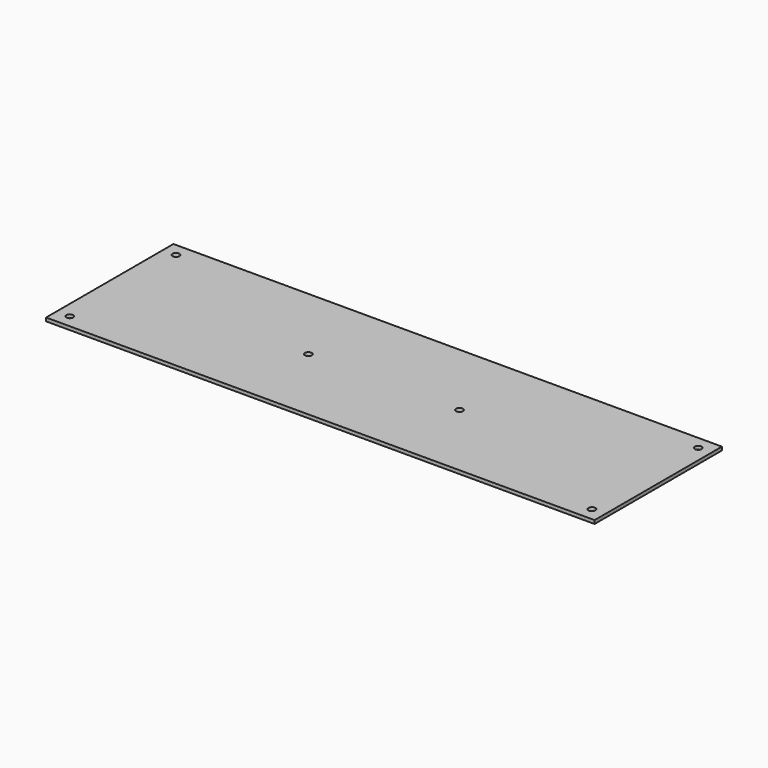
from build123d import *

# Parameters (mm, degrees)
F0_W     = 479
F0_H     = 139
F0_R     = 3
F1_DEPTH = 3


with BuildPart() as f1:
    # F0 (on Top) → F1 (new body)
    with BuildSketch(Plane.XY):
        Rectangle(F0_W, F0_H)
        with Locations((-228, -58)):
            Circle(F0_R, mode=Mode.SUBTRACT)
        with Locations((228, -58)):
            Circle(F0_R, mode=Mode.SUBTRACT)
        with Locations((-66, 0)):
            Circle(F0_R, mode=Mode.SUBTRACT)
        with Locations((-228, 58)):
            Circle(F0_R, mode=Mode.SUBTRACT)
        with Locations((66, 0)):
            Circle(F0_R, mode=Mode.SUBTRACT)
        with Locations((228, 58)):
            Circle(F0_R, mode=Mode.SUBTRACT)
    extrude(amount=F1_DEPTH)


solid = f1.part
